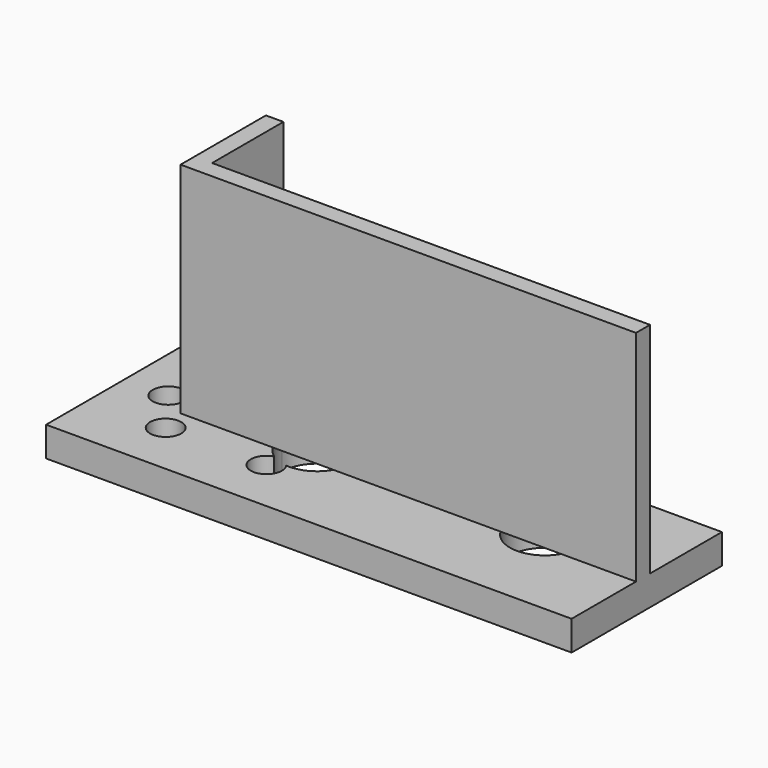
from build123d import *

# Parameters (mm, degrees)
F0_R     = 1.778
F1_DEPTH = 3.4
F4_DEPTH = 25


with BuildPart() as f1:
    # F0 (on Top) → F1 (new body)
    with BuildSketch(Plane.XY):
        Polygon((50, 10.261858), (0, 10.261858), (-10, 10.261858), (-10, -11.191153), (50, -11.191153), (50, 0), align=None)
        with Locations((-1.3, -5)):
            Circle(F0_R, mode=Mode.SUBTRACT)
        with BuildLine():
            ThreePointArc((8, 0), (12, 4), (16, 0))
            ThreePointArc((16, 0), (14.70562, -2.946119), (11.66019, -3.98554))
            ThreePointArc((11.66019, -3.98554), (11.896688, -4.468462), (11.978, -5))
            ThreePointArc((11.978, -5), (9.125181, -6.41635), (9.721478, -3.287604))
            ThreePointArc((9.721478, -3.287604), (8.456408, -1.855521), (8, 0))
        make_face(mode=Mode.SUBTRACT)
        with Locations((-5, 0)):
            Circle(F0_R, mode=Mode.SUBTRACT)
        with BuildLine():
            ThreePointArc((34, 0), (38, 4), (42, 0))
            ThreePointArc((42, 0), (38, -4), (34, 0))
        make_face(mode=Mode.SUBTRACT)
    extrude(amount=F1_DEPTH)

    # F3 (on face) → F4 (join)
    with BuildSketch(Plane.XY.offset(3.4)):
        Polygon((50, 0), (0, 0), (0, 10.178791), (-2, 10.178791), (-2, -2), (50, -2), align=None)
    extrude(amount=F4_DEPTH)


solid = f1.part
